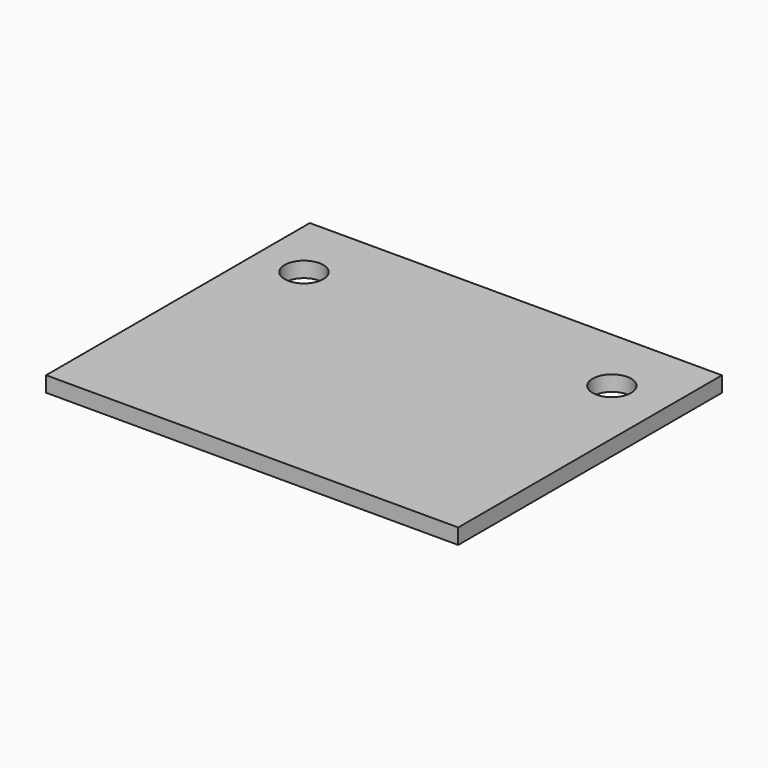
from build123d import *

# Parameters (mm, degrees)
F2_W     = 42.7
F2_H     = 34.15
F3_DEPTH = 1.6
F4_D     = 4


with BuildPart() as f3:
    # F2 (on Top) → F3 (new body)
    with BuildSketch(Plane.XY):
        Rectangle(F2_W, F2_H)
    extrude(amount=F3_DEPTH)

    # F4 (through all)
    with Locations(Plane(origin=(0, 0, 0), x_dir=(1, 0, 0), z_dir=(0, 0, -1))):
        with Locations((-16.35, -10.075), (15.55, -10.075)):
            Hole(F4_D / 2)


solid = f3.part
